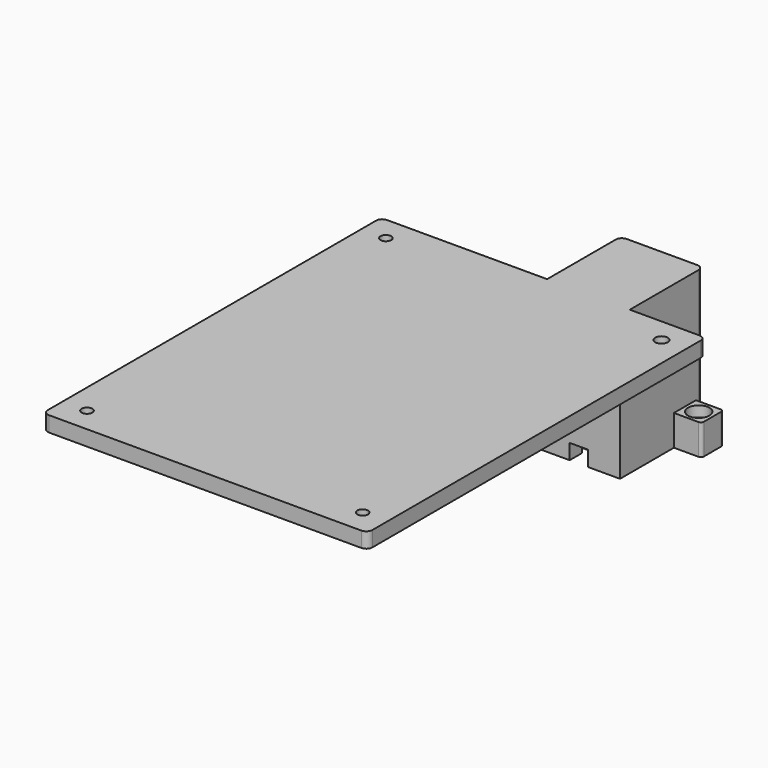
from build123d import *

# Parameters (mm, degrees)
SKETCH020_R     = 1.75
SKETCH020_R_2   = 2.04611
PAD008_DEPTH    = 5
SKETCH021_R     = 1.75
SKETCH021_R_2   = 1.925729
PAD009_DEPTH    = 1
PAD010_DEPTH    = 47
POCKET010_DEPTH = 1.5
POCKET011_DEPTH = 5
SKETCH025_R     = 1.75
PAD011_DEPTH    = 10
SKETCH026_R     = 3.5
POCKET012_DEPTH = 3.5


with BuildPart() as part:
    # Sketch020 (on Face1 of ShapeBinder) → Pad008 (new body)
    with BuildSketch(Plane.XY.offset(50)):
        with BuildLine():
            ThreePointArc((-51, 69), (-52.414214, 68.414214), (-53, 67))
            Line((-53, -67), (-53, 67))
            ThreePointArc((-53, -67), (-52.414214, -68.414214), (-51, -69))
            Line((51, -69), (-51, -69))
            ThreePointArc((51, -69), (52.414214, -68.414214), (53, -67))
            Line((53, 67), (53, -67))
            ThreePointArc((53, 67), (52.414214, 68.414214), (51, 69))
            Line((-51, 69), (51, 69))
        make_face()
        with Locations((-45, -61)):
            Circle(SKETCH020_R, mode=Mode.SUBTRACT)
        with Locations((45, -61)):
            Circle(SKETCH020_R, mode=Mode.SUBTRACT)
        with Locations((-45, 61)):
            Circle(SKETCH020_R, mode=Mode.SUBTRACT)
        with Locations((45, 61)):
            Circle(SKETCH020_R_2, mode=Mode.SUBTRACT)
    extrude(amount=PAD008_DEPTH)

    # Sketch021 (on Face1 of ShapeBinder) → Pad009 (join)
    with BuildSketch(Plane.XY.offset(50)):
        with BuildLine():
            ThreePointArc((-46.5, 64.5), (-47.914214, 63.914214), (-48.5, 62.5))
            Line((-48.5, -62.5), (-48.5, 62.5))
            ThreePointArc((-48.5, -62.5), (-47.914214, -63.914214), (-46.5, -64.5))
            Line((46.5, -64.5), (-46.5, -64.5))
            ThreePointArc((46.5, -64.5), (47.914214, -63.914214), (48.5, -62.5))
            Line((48.5, 62.5), (48.5, -62.5))
            ThreePointArc((48.5, 62.5), (47.914214, 63.914214), (46.5, 64.5))
            Line((-46.5, 64.5), (46.5, 64.5))
        make_face()
        with Locations((-45, -61)):
            Circle(SKETCH021_R, mode=Mode.SUBTRACT)
        with Locations((45, -61)):
            Circle(SKETCH021_R_2, mode=Mode.SUBTRACT)
        with Locations((-45, 61)):
            Circle(SKETCH021_R, mode=Mode.SUBTRACT)
        with Locations((45, 61)):
            Circle(SKETCH021_R, mode=Mode.SUBTRACT)
    extrude(amount=-PAD009_DEPTH)

    # Sketch022 (on Face14 of Pad008) → Pad010 (join)
    with BuildSketch(Plane.XY.offset(55)):
        with BuildLine():
            Line((3.25, 99), (26.25, 99))
            ThreePointArc((28.25, 97), (27.664214, 98.414214), (26.25, 99))
            Line((28.25, 97), (28.25, 65))
            Line((28.25, 65), (1.25, 65))
            Line((1.25, 65), (1.25, 97))
            ThreePointArc((3.25, 99), (1.835786, 98.414214), (1.25, 97))
        make_face()
    extrude(amount=-PAD010_DEPTH)

    # Sketch023 (on Face30 of Pad010) → Pocket010 (cut)
    with BuildSketch(Plane(origin=(0, 0, 8), x_dir=(1, 0, 0), z_dir=(0, 0, -1))):
        with BuildLine():
            ThreePointArc((7.8, -70), (6.527208, -70.527208), (6, -71.8))
            Line((6, -123.151319), (6, -71.8))
            ThreePointArc((6, -123.151319), (6.527208, -124.424111), (7.8, -124.951319))
            Line((21.8, -124.951319), (7.8, -124.951319))
            ThreePointArc((21.8, -124.951319), (23.072792, -124.424111), (23.6, -123.151319))
            Line((23.6, -71.8), (23.6, -123.151319))
            ThreePointArc((23.6, -71.8), (23.072792, -70.527208), (21.8, -70))
            Line((7.8, -70), (21.8, -70))
        make_face()
        with BuildLine():
            ThreePointArc((10.1, -72.3), (8.827208, -72.827208), (8.3, -74.1))
            Line((8.3, -119.625365), (8.3, -74.1))
            ThreePointArc((8.3, -119.625365), (8.827208, -120.898157), (10.1, -121.425365))
            Line((19.5, -121.425365), (10.1, -121.425365))
            ThreePointArc((19.5, -121.425365), (20.772792, -120.898157), (21.3, -119.625365))
            Line((21.3, -74.1), (21.3, -119.625365))
            ThreePointArc((21.3, -74.1), (20.772792, -72.827208), (19.5, -72.3))
            Line((10.1, -72.3), (19.5, -72.3))
        make_face(mode=Mode.SUBTRACT)
    extrude(amount=-POCKET010_DEPTH, mode=Mode.SUBTRACT)

    # Sketch024 (on Face30 of Pad010) → Pocket011 (cut)
    with BuildSketch(Plane(origin=(0, 0, 8), x_dir=(1, 0, 0), z_dir=(0, 0, -1))):
        Polygon((17.8, -65), (11.8, -65), (11.8, -77.95), (3, -77.95), (3, -82.95), (26.6, -82.95), (26.6, -77.95), (17.8, -77.95), align=None)
    extrude(amount=-POCKET011_DEPTH, mode=Mode.SUBTRACT)

    # Sketch025 (on Face30 of Pad010) → Pad011 (join)
    with BuildSketch(Plane(origin=(0, 0, 8), x_dir=(1, 0, 0), z_dir=(0, 0, -1))):
        with BuildLine():
            Line((-7.75, -73), (-7.75, -80))
            ThreePointArc((-7.75, -80), (-7.457107, -80.707107), (-6.75, -81))
            Line((-6.75, -81), (1.25, -81))
            Line((1.25, -81), (1.25, -72))
            Line((1.25, -72), (-6.75, -72))
            ThreePointArc((-6.75, -72), (-7.457107, -72.292893), (-7.75, -73))
        make_face()
        with Locations((-3.25, -76.5)):
            Circle(SKETCH025_R, mode=Mode.SUBTRACT)
        with BuildLine():
            Line((36.25, -87), (28.25, -87))
            Line((28.25, -87), (28.25, -96))
            Line((28.25, -96), (36.25, -96))
            ThreePointArc((36.25, -96), (36.957107, -95.707107), (37.25, -95))
            Line((37.25, -95), (37.25, -88))
            ThreePointArc((37.25, -88), (36.957107, -87.292893), (36.25, -87))
        make_face()
        with Locations((32.75, -91.5)):
            Circle(SKETCH025_R, mode=Mode.SUBTRACT)
    extrude(amount=-PAD011_DEPTH)

    # Sketch026 (on Face32 of Pad011) → Pocket012 (cut)
    with BuildSketch(Plane.XY.offset(18)):
        with Locations((-3.25, 76.5)):
            Circle(SKETCH026_R)
        with Locations((32.75, 91.5)):
            Circle(SKETCH026_R)
    extrude(amount=-POCKET012_DEPTH, mode=Mode.SUBTRACT)


solid = part.part
